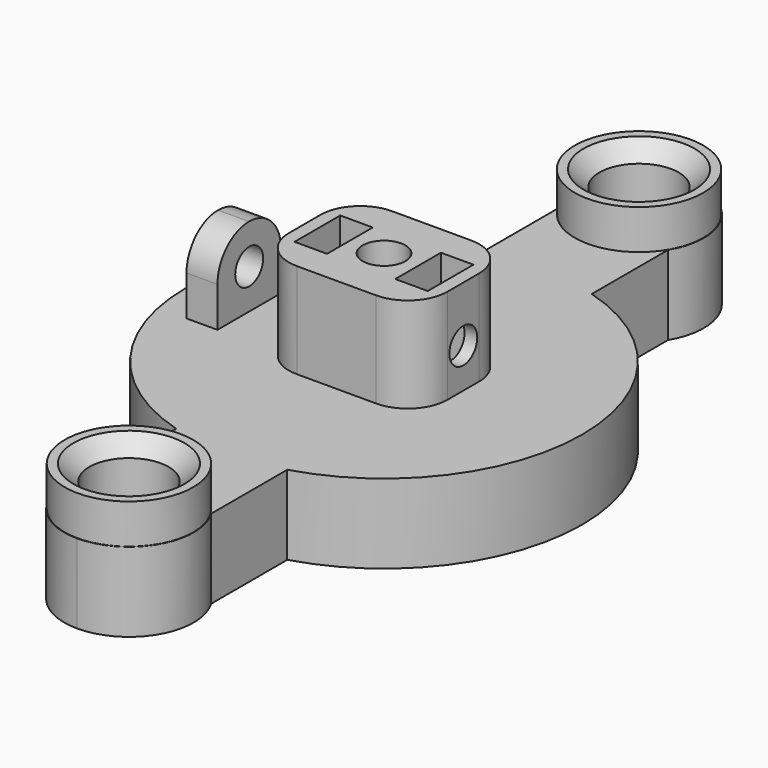
from build123d import *

# Parameters (mm, degrees)
SKETCH_R        = 25
PAD_DEPTH       = 10
SKETCH001_W     = 20
SKETCH001_H     = 15
PAD001_DEPTH    = 12
SKETCH002_R     = 2.7
POCKET_DEPTH    = 10
SKETCH003_W     = 4.1
SKETCH003_H     = 7.2
POCKET001_DEPTH = 12
SKETCH004_R     = 2.2
POCKET002_DEPTH = 30
FILLET_R        = 5
FILLET001_R     = 5
FILLET002_R     = 5
FILLET003_R     = 5
SKETCH005_R     = 5
PAD002_DEPTH    = 10
SKETCH006_W     = 3.9
SKETCH006_H     = 10
PAD003_DEPTH    = 10
SKETCH007_R     = 2.2
POCKET003_DEPTH = 4
SKETCH008_R     = 8.1
SKETCH008_R_2   = 5
PAD004_DEPTH    = 5
FILLET004_R     = 5
FILLET005_R     = 4.95
CHAMFER_SIZE    = 2
CHAMFER001_SIZE = 2


with BuildPart() as part:
    # Sketch → Pad (new body)
    with BuildSketch(Plane.XY):
        Circle(SKETCH_R)
    extrude(amount=PAD_DEPTH)

    # Sketch001 (on Face3 of Pad) → Pad001 (join)
    with BuildSketch(Plane.XY.offset(10)):
        Rectangle(SKETCH001_W, SKETCH001_H)
    extrude(amount=PAD001_DEPTH)

    # Sketch002 (on Face8 of Pad001) → Pocket (cut)
    with BuildSketch(Plane.XY.offset(22)):
        Circle(SKETCH002_R)
    extrude(amount=-POCKET_DEPTH, mode=Mode.SUBTRACT)

    # Sketch003 (on Face8 of Pocket) → Pocket001 (cut)
    with BuildSketch(Plane.XY.offset(22)):
        with Locations((-6.35, 0)):
            Rectangle(SKETCH003_W, SKETCH003_H)
        with Locations((6.35, 0)):
            Rectangle(SKETCH003_W, SKETCH003_H)
    extrude(amount=-POCKET001_DEPTH, mode=Mode.SUBTRACT)

    # Sketch004 (on Face6 of Pocket001) → Pocket002 (cut)
    with BuildSketch(Plane.YZ.offset(10)):
        with Locations((0, 15)):
            Circle(SKETCH004_R)
    extrude(amount=-POCKET002_DEPTH, mode=Mode.SUBTRACT)

    # Fillet
    fillet_edges = [part.edges().sort_by_distance(p)[0] for p in [
        (-10, -7.5, 16),
    ]]
    fillet(fillet_edges, radius=FILLET_R)

    # Fillet001
    fillet001_edges = [part.edges().sort_by_distance(p)[0] for p in [
        (-10, 7.5, 16),
    ]]
    fillet(fillet001_edges, radius=FILLET001_R)

    # Fillet002
    fillet002_edges = [part.edges().sort_by_distance(p)[0] for p in [
        (10, 7.5, 16),
    ]]
    fillet(fillet002_edges, radius=FILLET002_R)

    # Fillet003
    fillet003_edges = [part.edges().sort_by_distance(p)[0] for p in [
        (10, -7.5, 16),
    ]]
    fillet(fillet003_edges, radius=FILLET003_R)

    # Sketch005 (on Face1 of Fillet003) → Pad002 (join)
    with BuildSketch(Plane.XY.offset(10)):
        with BuildLine():
            Line((-7, 36), (-7, -36))
            ThreePointArc((-7, -36), (-7.103731, -44.222064), (0, -48.363333))
            ThreePointArc((0, -48.363333), (7.103731, -44.222064), (7, -36))
            Line((7, 36), (7, -36))
            ThreePointArc((7, 36), (7.103731, 44.222064), (0, 48.363333))
            ThreePointArc((0, 48.363333), (-7.103731, 44.222064), (-7, 36))
        make_face()
        with Locations((0, -40.2)):
            Circle(SKETCH005_R, mode=Mode.SUBTRACT)
        with Locations((0, 40.2)):
            Circle(SKETCH005_R, mode=Mode.SUBTRACT)
    extrude(amount=-PAD002_DEPTH)

    # Sketch006 (on Face13 of Pad002) → Pad003 (join)
    with BuildSketch(Plane.XY.offset(10)):
        with Locations((-18.95, 0)):
            Rectangle(SKETCH006_W, SKETCH006_H)
    extrude(amount=PAD003_DEPTH)

    # Sketch007 (on Face32 of Pad003) → Pocket003 (cut)
    with BuildSketch(Plane(origin=(-20.9, 0, 0), x_dir=(0, -1, 0), z_dir=(-1, 0, 0))):
        with Locations((0, 15)):
            Circle(SKETCH007_R)
    extrude(amount=-POCKET003_DEPTH, mode=Mode.SUBTRACT)

    # Sketch008 (on Face18 of Pocket003) → Pad004 (join)
    with BuildSketch(Plane.XY.offset(10)):
        with Locations((0, 40.2)):
            Circle(SKETCH008_R)
        with Locations((0, 40.2)):
            Circle(SKETCH008_R_2, mode=Mode.SUBTRACT)
        with Locations((0, -40.2)):
            Circle(SKETCH008_R)
        with Locations((0, -40.2)):
            Circle(SKETCH008_R_2, mode=Mode.SUBTRACT)
    extrude(amount=PAD004_DEPTH)

    # Fillet004
    fillet004_edges = [part.edges().sort_by_distance(p)[0] for p in [
        (-18.95, 5, 20),
    ]]
    fillet(fillet004_edges, radius=FILLET004_R)

    # Fillet005
    fillet005_edges = [part.edges().sort_by_distance(p)[0] for p in [
        (-18.95, -5, 20),
    ]]
    fillet(fillet005_edges, radius=FILLET005_R)

    # Chamfer
    chamfer_edges = [part.edges().sort_by_distance(p)[0] for p in [
        (-5, 40.2, 15),
    ]]
    chamfer(chamfer_edges, length=CHAMFER_SIZE)

    # Chamfer001
    chamfer001_edges = [part.edges().sort_by_distance(p)[0] for p in [
        (-5, -40.2, 15),
    ]]
    chamfer(chamfer001_edges, length=CHAMFER001_SIZE)


solid = part.part
